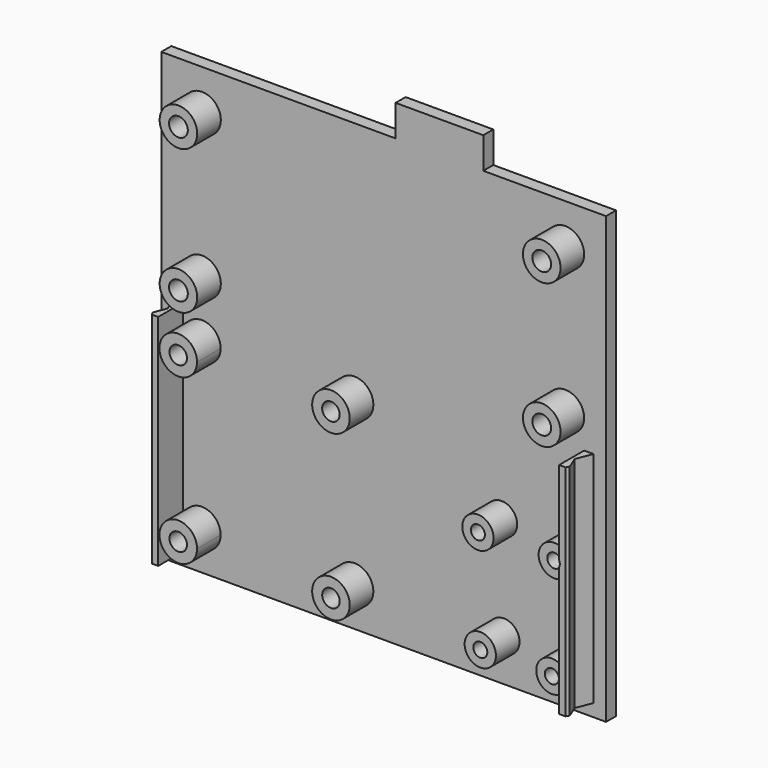
from build123d import *

# Parameters (mm, degrees)
PAD003_DEPTH    = 2
SKETCH009_R     = 3
SKETCH009_R_2   = 2.5
PAD004_DEPTH    = 4.75
SKETCH010_R     = 1.5
SKETCH010_R_2   = 1.4
SKETCH010_R_3   = 1.12
POCKET001_DEPTH = 4.75
PAD006_DEPTH    = 35
SKETCH017_R     = 1.12
POCKET007_DEPTH = 4.75
POCKET008_DEPTH = 35


with BuildPart() as part:
    # Sketch007 (on Origin) → Pad003 (new body)
    with BuildSketch(Plane.XZ.offset(-10.46)):
        Polygon((-35.76, 31.05), (1.64, 31.05), (1.64, 36.05), (15.64, 36.05), (15.64, 31.05), (35.24, 31.05), (35.24, -40.03), (-35.76, -40.03), align=None)
    extrude(amount=PAD003_DEPTH)

    # Sketch009 → Pad004 (join)
    with BuildSketch(Plane(origin=(0, 8.5, 0), x_dir=(1, 0, 0), z_dir=(0, 1, 0))):
        with Locations((-4.91, 33.77)):
            Circle(SKETCH009_R)
        with Locations((-29.29, 33.77)):
            Circle(SKETCH009_R)
        with Locations((-29.29, 7.54)):
            Circle(SKETCH009_R)
        with Locations((-4.91, 7.54)):
            Circle(SKETCH009_R)
        with Locations((30.36, 33.28)):
            Circle(SKETCH009_R_2)
        with Locations((18.93, 33.28)):
            Circle(SKETCH009_R_2)
        with Locations((18.55, 16.9)):
            Circle(SKETCH009_R_2)
        with Locations((30.74, 16.9)):
            Circle(SKETCH009_R_2)
        with Locations((28.74, -24.55)):
            Circle(SKETCH009_R)
        with Locations((-29.26, -24.55)):
            Circle(SKETCH009_R)
        with Locations((-29.26, -1.55)):
            Circle(SKETCH009_R)
        with Locations((28.74, -1.55)):
            Circle(SKETCH009_R)
    extrude(amount=-PAD004_DEPTH)

    # Sketch010 (on Face33 of Pad004) → Pocket001 (cut)
    with BuildSketch(Plane.XZ.offset(-3.75)):
        with Locations((-29.26, 24.55)):
            Circle(SKETCH010_R)
        with Locations((-29.26, 1.55)):
            Circle(SKETCH010_R)
        with Locations((28.74, 1.55)):
            Circle(SKETCH010_R)
        with Locations((28.74, 24.55)):
            Circle(SKETCH010_R)
        with Locations((-29.29, -7.54)):
            Circle(SKETCH010_R_2)
        with Locations((-4.91, -7.54)):
            Circle(SKETCH010_R_2)
        with Locations((-4.91, -33.77)):
            Circle(SKETCH010_R_2)
        with Locations((-29.29, -33.77)):
            Circle(SKETCH010_R_2)
        with Locations((18.55, -16.9)):
            Circle(SKETCH010_R_3)
        with Locations((30.74, -16.9)):
            Circle(SKETCH010_R_3)
        with Locations((30.36, -33.28)):
            Circle(SKETCH010_R_3)
        with Locations((18.93, -33.28)):
            Circle(SKETCH010_R_3)
    extrude(amount=-POCKET001_DEPTH, mode=Mode.SUBTRACT)

    # Sketch016 (on DatumPlane) → Pad006 (join)
    with BuildSketch(Plane(origin=(0, 10.46, -38.03), x_dir=(1, 0, 0), z_dir=(0, 0, -1))):
        Polygon((-33.76, 2), (-32.76, 4.5), (-33.56, 6.5), (-33.26, 7), (-32.26, 7), (-32.26, 2), align=None)
        Polygon((33.24, 2), (32.24, 4.5), (33.04, 6.5), (32.74, 7), (31.74, 7), (31.74, 2), align=None)
    extrude(amount=-PAD006_DEPTH)

    # Sketch017 (on Face46 of Pad006) → Pocket007 (cut, symmetric)
    with BuildSketch(Plane.XZ.offset(-3.75)):
        with Locations((30.74, -16.9)):
            Circle(SKETCH017_R)
    extrude(amount=POCKET007_DEPTH, both=True, mode=Mode.SUBTRACT)

    # Sketch018 (on Face32 of Pocket007) → Pocket008 (cut)
    with BuildSketch(Plane(origin=(0, 10.46, -38.03), x_dir=(1, 0, 0), z_dir=(0, 0, -1))):
        Polygon((35.24, 2), (33.24, 2), (32.24, 4.5), (33.04, 6.5), (32.74, 7), (35.24, 7), align=None)
    extrude(amount=-POCKET008_DEPTH, mode=Mode.SUBTRACT)


solid = part.part
